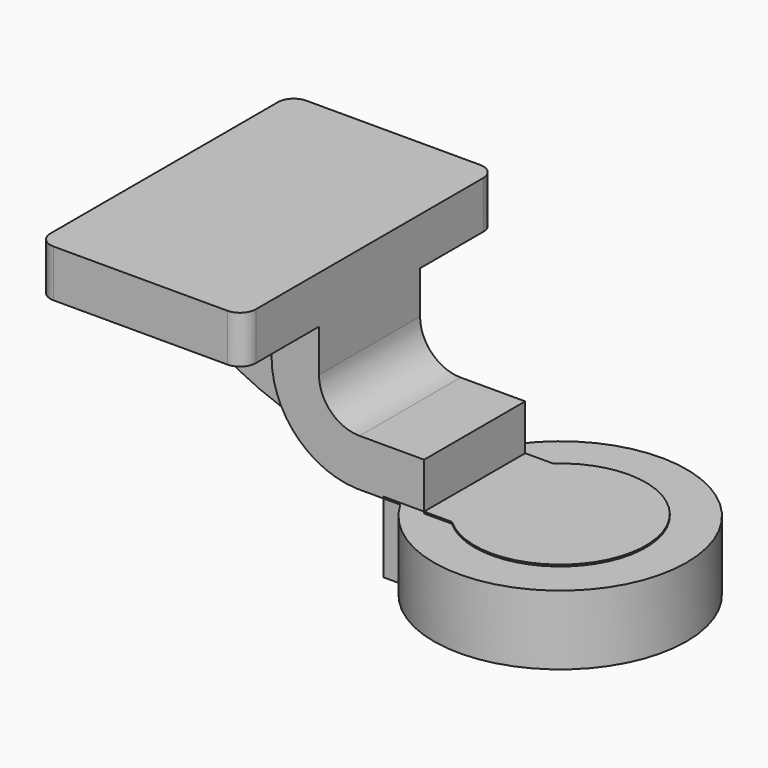
from build123d import *

# Parameters (mm, degrees)
F1_DEPTH = 63.5
F2_DEPTH = 25.4
F3_DEPTH = 7.9375
F5_R     = 6.35
F6_R     = 6.35


with BuildPart() as f1:
    # F0 (on Front) → F1 (new body, symmetric)
    with BuildSketch(Plane.XZ):
        Polygon((41.275, 9.525), (-41.275, 9.525), (-41.275, -9.525), (22.225, -9.525), (41.275, -9.525), align=None)
    extrude(amount=F1_DEPTH, both=True)

    # F0 (on Front) → F2 (join, symmetric)
    with BuildSketch(Plane.XZ):
        with BuildLine():
            Line((41.275, -26.581538), (41.275, -9.525))
            Line((41.275, -9.525), (22.225, -9.525))
            Line((22.225, -9.525), (22.225, -26.581538))
            ThreePointArc((22.225, -26.581538), (32.015305, -50.998753), (55.962329, -61.888678))
            add(Edge.make_bspline(
                [(55.962329, -61.888678), (56.50135, -61.903648), (57.036854, -61.915795), (57.568662, -61.9252)],
                knots=[110.068778, 110.068778, 110.068778, 110.068778, 111.874262, 111.874262, 111.874262, 111.874262], degree=3))
            Line((57.568662, -61.9252), (67.124001, -61.9252))
            Line((67.124001, -61.9252), (67.124001, -61.242696))
            Line((67.124001, -61.242696), (83.522829, -61.242696))
            Line((83.522829, -61.242696), (83.522829, -42.8752))
            Line((83.522829, -42.8752), (57.568662, -42.8752))
            ThreePointArc((57.568662, -42.8752), (46.047303, -38.102897), (41.275, -26.581538))
        make_face()
        Polygon((83.522829, -61.9252), (67.124001, -61.9252), (67.124001, -89.817696), (117.924001, -89.817696), (117.924001, -61.242696), (83.522829, -61.242696), align=None)
    extrude(amount=F2_DEPTH, both=True)

    # F0 (on Front) → F3 (join, symmetric)
    with BuildSketch(Plane.XZ):
        with BuildLine():
            Line((22.225, -9.525), (-41.275, -9.525))
            add(Edge.make_bspline(
                [(-41.275, -9.525), (-22.828837, -49.573984), (23.101689, -60.976075), (55.962329, -61.888678)],
                knots=[0, 0, 0, 0, 110.068778, 110.068778, 110.068778, 110.068778], degree=3))
            ThreePointArc((55.962329, -61.888678), (32.015305, -50.998753), (22.225, -26.581538))
            Line((22.225, -26.581538), (22.225, -9.525))
        make_face()
    extrude(amount=F3_DEPTH, both=True)

    # F0 (on Front) → F4 (revolve)
    with BuildSketch(Plane.XZ):
        Polygon((83.522829, -61.9252), (67.124001, -61.9252), (67.124001, -89.817696), (117.924001, -89.817696), (117.924001, -61.242696), (83.522829, -61.242696), align=None)
    revolve(axis=Axis((117.924001, 0, -75.530196), (0, 0, 1)))

    # F5
    f5_edges = [f1.edges().sort_by_distance(p)[0] for p in [
        (41.275, 63.5, 0),
        (41.275, -63.5, 0),
        (-41.275, -63.5, 0),
    ]]
    fillet(f5_edges, radius=F5_R)

    # F6
    f6_edges = [f1.edges().sort_by_distance(p)[0] for p in [
        (-41.275, 63.5, 0),
    ]]
    fillet(f6_edges, radius=F6_R)


solid = f1.part
